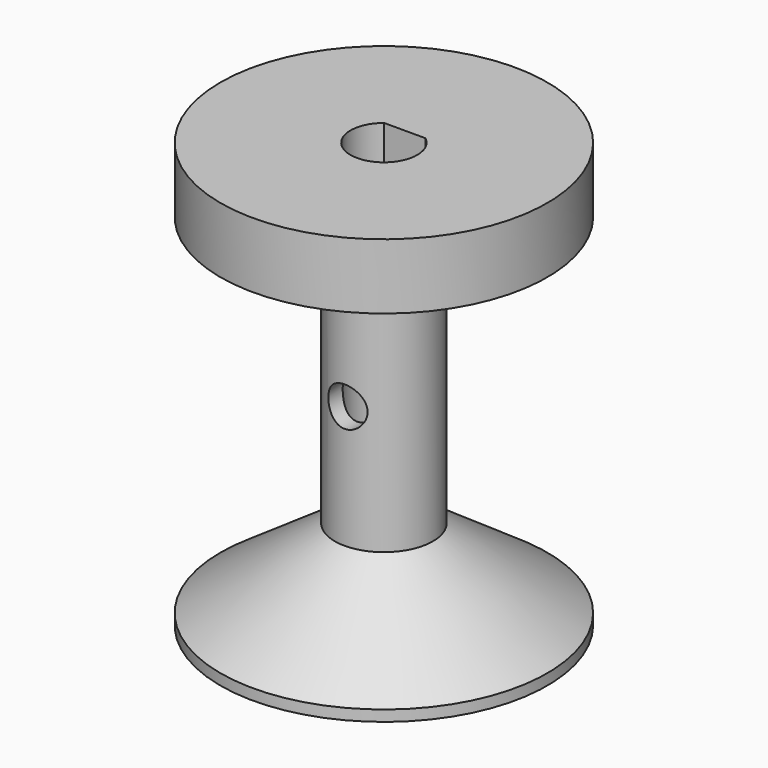
from build123d import *

# Parameters (mm, degrees)
SKETCH_R             = 10
PAD_DEPTH            = 26
SKETCH006_R          = 1.2
POCKET_DEPTH         = 10.001
POCKET_DEPTH_BACK    = 10.001
BODY_PLACEMENT_ANGLE = 180


with BuildPart() as part:
    # Sketch → Pad (new body)
    with BuildSketch(Plane.XY):
        Circle(SKETCH_R)
        with BuildLine():
            ThreePointArc((-1.265543, 1.6), (0, -2.04), (1.265543, 1.6))
            Line((-1.265543, 1.6), (1.265543, 1.6))
        make_face(mode=Mode.SUBTRACT)
    extrude(amount=PAD_DEPTH)

    # Sketch001 → Groove (revolve, cut)
    with BuildSketch(Plane.XZ):
        Polygon((10, 25.33014), (3, 20.5), (3, 5.5), (10, 4), align=None)
    revolve(axis=Axis((0, 0, 0), (0, 0, 1)), mode=Mode.SUBTRACT)

    # Sketch006 → Pocket (cut, two sides)
    with BuildSketch(Plane.XZ) as pocket_sk:
        with Locations((0, 13)):
            Circle(SKETCH006_R)
    extrude(amount=-POCKET_DEPTH, mode=Mode.SUBTRACT)
    extrude(pocket_sk.sketch, amount=POCKET_DEPTH_BACK, mode=Mode.SUBTRACT)


with BuildPart() as part_1:
    # Body placement: moved
    add(part.part.moved(Location((0, 0, -5))).rotate(Axis((0, 0, -5), (0, 1, 0)), BODY_PLACEMENT_ANGLE))


solid = part_1.part
